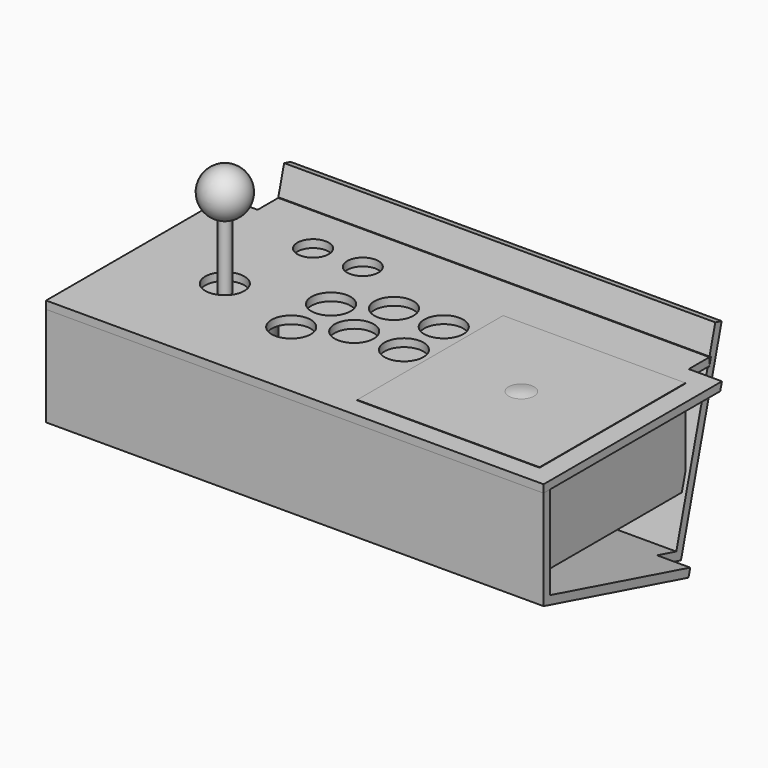
from build123d import *

# Parameters (mm, degrees)
F2_R           = 15
F2_W           = 139.7
F2_H           = 139.7
F2_R_2         = 12
F3_DEPTH       = 5.9944
F13_DEPTH      = 66.04
F13_DEPTH_BACK = 6.35
F15_DEPTH      = 381
F16_W          = 25.4
F16_H          = 25.4
F17_DEPTH      = 203.2


with BuildPart() as f3:
    # F2 (on Top) → F3 (new body)
    with BuildSketch(Plane.XY):
        Polygon((0, 171.45), (0, 0), (381, 0), (381, 171.45), (361.95, 171.45), (361.95, 190.5), (19.05, 190.5), (19.05, 171.45), align=None)
        with Locations((69.85, 83.82)):
            Circle(F2_R, mode=Mode.SUBTRACT)
        with Locations((135.9144321158, 64.77)):
            Circle(F2_R, mode=Mode.SUBTRACT)
        with Locations((168.91, 83.82)):
            Circle(F2_R, mode=Mode.SUBTRACT)
        with Locations((207.01, 83.82)):
            Circle(F2_R, mode=Mode.SUBTRACT)
        with Locations((295.91, 85.09)):
            Rectangle(F2_W, F2_H, mode=Mode.SUBTRACT)
        with Locations((135.9144321158, 102.87)):
            Circle(F2_R, mode=Mode.SUBTRACT)
        with Locations((168.91, 121.92)):
            Circle(F2_R, mode=Mode.SUBTRACT)
        with Locations((82.55, 152.4)):
            Circle(F2_R_2, mode=Mode.SUBTRACT)
        with Locations((120.65, 152.4)):
            Circle(F2_R_2, mode=Mode.SUBTRACT)
        with Locations((207.01, 121.92)):
            Circle(F2_R, mode=Mode.SUBTRACT)
    extrude(amount=F3_DEPTH)

    # F9 (on offset) → F10 (revolve)
    with BuildSketch(Plane.YZ.offset(69.85)):
        with BuildLine():
            Line((83.82, -40), (83.82, 85.2115345253))
            ThreePointArc((83.82, 85.2115345253), (66.4677400003, 69.980691396), (79.32, 50.8))
            Line((79.32, 50.8), (79.32, 0))
            Line((79.32, 0), (51.82, 0))
            Line((51.82, 0), (51.82, -40))
            Line((51.82, -40), (83.82, -40))
        make_face()
    revolve(axis=Axis((69.85, 83.82, 22.6057672626), (0, 0, -1)))



with BuildPart() as f12:
    # F11 (on 3pt) → F12 (revolve)
    with BuildSketch(Plane(origin=(295.91, 0, 0), x_dir=(0, -1, 0), z_dir=(-1, 0, 0))):
        with BuildLine():
            Line((-85.09, 7.62), (-85.09, -68.58))
            ThreePointArc((-85.09, -68.58), (-46.99, -30.48), (-85.09, 7.62))
        make_face()
    revolve(axis=Axis((295.91, 85.09, -30.48), (0, 0, -1)))


with BuildPart() as f3_1:
    add(f3.part)

    add(f12.part)  # F13 merges F12
    # F2 (on Top) → F13 (join, two sides)
    with BuildSketch(Plane.XY) as f13_sk:
        with Locations((295.91, 85.09)):
            Rectangle(F2_W, F2_H)
    extrude(amount=-F13_DEPTH)
    extrude(f13_sk.sketch, amount=F13_DEPTH_BACK)


with BuildPart() as f15:
    # F14 (on Right) → F15 (new body)
    with BuildSketch(Plane.YZ):
        Polygon((188.8564990636, 0), (158.7990133976, -112.1760636532), (164.9326423946, -113.8195645896), (202.2700196956, 25.5254245194), (196.1363906987, 27.1689254558), (190.5727873899, 6.4052752341), (192.1061946391, 5.9944), (190.3899063128, -0.4108752341), align=None)
        Polygon((6.35, -71.3274736263), (6.35, -77.9014773719), (163.2891414582, -119.9531935865), (164.9326423946, -113.8195645896), (158.7990133976, -112.1760636532), align=None)
        Polygon((6.35, 0), (0, 0), (0, -76.2), (6.35, -77.9014773719), (6.35, -71.3274736263), align=None)
    extrude(amount=F15_DEPTH)


with BuildPart() as f17_tool:
    # F16 (on face) → F17 (new body)
    with BuildSketch(Plane(origin=(0, -19.05, -71.0955678842), x_dir=(1, 0, 0), z_dir=(0, -0.2588190451, -0.9659258263))):
        with Locations((368.3, -176.0713699081)):
            Rectangle(F16_W, F16_H)
        with Locations((12.7, -176.0713699081)):
            Rectangle(F16_W, F16_H)
    extrude(amount=-F17_DEPTH)


with BuildPart() as f3_2:
    add(f3_1.part)

    # F17: cut by f17_tool
    add(f17_tool.part, mode=Mode.SUBTRACT)


with BuildPart() as f15_1:
    add(f15.part)

    # F17: cut by f17_tool
    add(f17_tool.part, mode=Mode.SUBTRACT)


solid = Compound([f3_2.part, f15_1.part])
